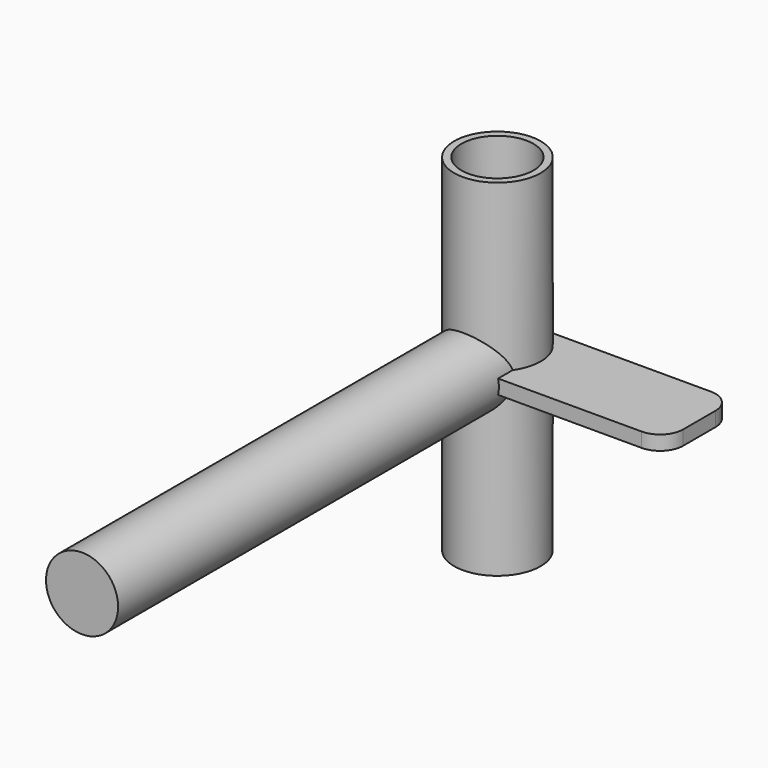
from build123d import *

# Parameters (mm, degrees)
F0_R     = 9.525
F0_R_2   = 7.9375
F1_DEPTH = 38.1
F2_W     = 19.05
F2_H     = 3.175
F3_DEPTH = 44.45
F4_R     = 5.08
F5_R     = 7.9375
F6_DEPTH = 114.3


with BuildPart() as f1:
    # F0 (on Top) → F1 (new body, symmetric)
    with BuildSketch(Plane.XY):
        Circle(F0_R)
        Circle(F0_R_2, mode=Mode.SUBTRACT)
    extrude(amount=F1_DEPTH, both=True)

    # F2 (on Right) → F3 (join)
    with BuildSketch(Plane.YZ):
        Rectangle(F2_W, F2_H)
    extrude(amount=F3_DEPTH)

    # F4
    f4_edges = [f1.edges().sort_by_distance(p)[0] for p in [
        (44.45, -9.525, 0),
        (44.45, 9.525, 0),
    ]]
    fillet(f4_edges, radius=F4_R)

    # F5 (on Front) → F6 (join)
    with BuildSketch(Plane.XZ):
        Circle(F5_R)
    extrude(amount=F6_DEPTH)


solid = f1.part
